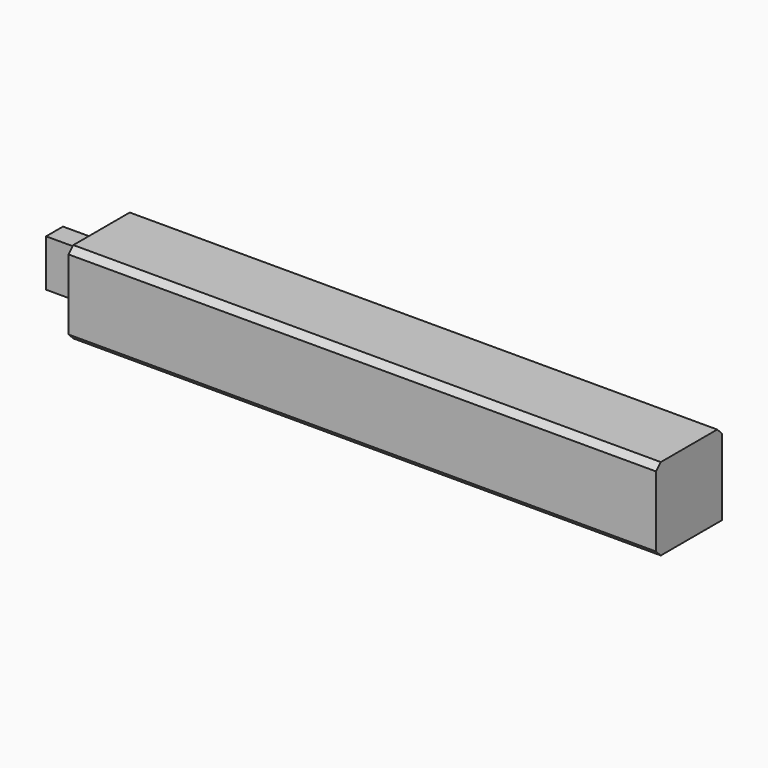
from build123d import *

# Parameters (mm, degrees)
F0_W     = 70
F0_H     = 70
F1_DEPTH = 500
F2_W     = 18
F2_H     = 40
F3_DEPTH = 40
F4_SIZE  = 5


with BuildPart() as f1:
    # F0 (on Right) → F1 (new body)
    with BuildSketch(Plane.YZ):
        Rectangle(F0_W, F0_H)
    extrude(amount=F1_DEPTH)

    # F2 (on face) → F3 (join)
    with BuildSketch(Plane(origin=(0, 0, 0), x_dir=(0, -1, 0), z_dir=(-1, 0, 0))):
        Rectangle(F2_W, F2_H)
    extrude(amount=F3_DEPTH)

    # F4
    f4_edges = [f1.edges().sort_by_distance(p)[0] for p in [
        (250, -35, 35),
        (250, 35, 35),
        (250, -35, -35),
    ]]
    chamfer(f4_edges, length=F4_SIZE)


solid = f1.part
